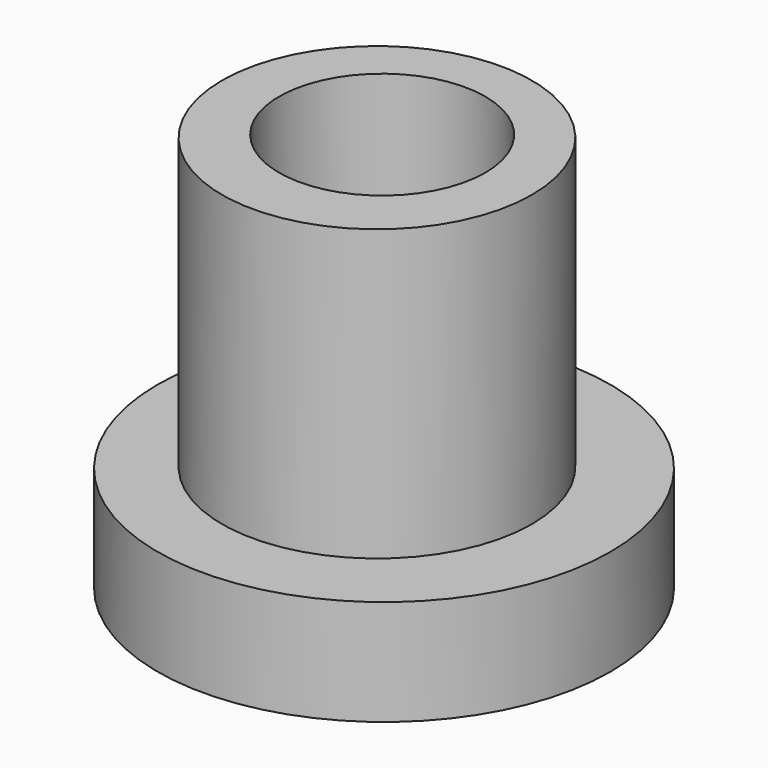
from build123d import *

# Parameters (mm, degrees)
F0_R     = 51.457531
F0_R_2   = 34.242605
F1_DEPTH = 96.266
F2_R     = 75.207579
F2_R_2   = 43.853945
F3_DEPTH = 35.052


with BuildPart() as f1:
    # F0 (on Top) → F1 (new body)
    with BuildSketch(Plane.XY):
        with Locations((0, -2.172645)):
            Circle(F0_R)
        Circle(F0_R_2, mode=Mode.SUBTRACT)
    extrude(amount=-F1_DEPTH)

    # F2 (on face) → F3 (join)
    with BuildSketch(Plane(origin=(0, 0, -96.266), x_dir=(1, 0, 0), z_dir=(0, 0, -1))):
        with Locations((1.889259, 1.605868)):
            Circle(F2_R)
        with Locations((1.889259, 1.605868)):
            Circle(F2_R_2, mode=Mode.SUBTRACT)
    extrude(amount=F3_DEPTH)


solid = f1.part
